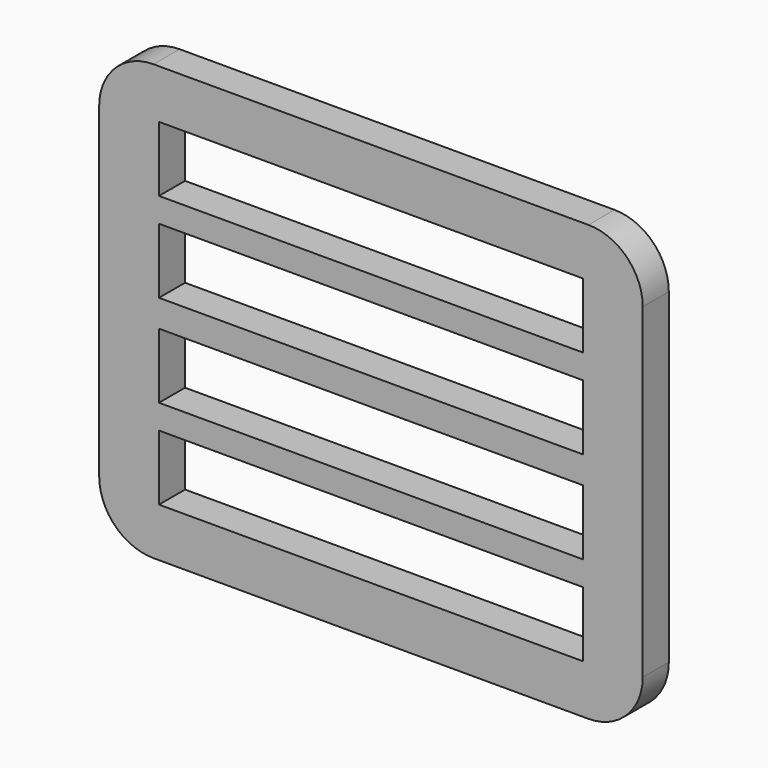
from build123d import *

# Parameters (mm, degrees)
F0_W     = 100
F0_H     = 80
F0_W_2   = 78
F0_H_2   = 12
F1_DEPTH = 6
F2_R     = 10


with BuildPart() as f1:
    # F0 (on Front) → F1 (new body)
    with BuildSketch(Plane.XZ):
        Rectangle(F0_W, F0_H)
        with Locations((0, -25)):
            Rectangle(F0_W_2, F0_H_2, mode=Mode.SUBTRACT)
        with Locations((0, -8.5)):
            Rectangle(F0_W_2, F0_H_2, mode=Mode.SUBTRACT)
        with Locations((0, 8.5)):
            Rectangle(F0_W_2, F0_H_2, mode=Mode.SUBTRACT)
        with Locations((0, 25)):
            Rectangle(F0_W_2, F0_H_2, mode=Mode.SUBTRACT)
    extrude(amount=F1_DEPTH)

    # F2
    f2_edges = [f1.edges().sort_by_distance(p)[0] for p in [
        (50, -3, 40),
        (-50, -3, -40),
        (-50, -3, 40),
        (50, -3, -40),
    ]]
    fillet(f2_edges, radius=F2_R)


solid = f1.part
